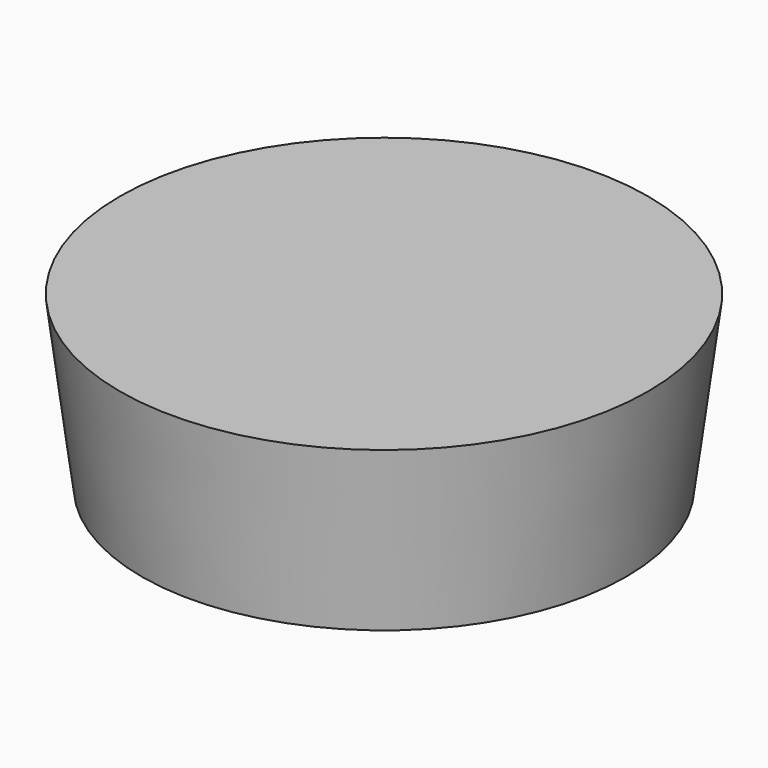
from build123d import *


with BuildPart() as part:
    # Sketch → Revolution (revolve)
    with BuildSketch(Plane.XZ):
        Polygon((12.3, 0.972585), (13, 0), (14.5, 0), (15.8, 10.177247), (0, 10.177247), (0, 8.677247), (12.3, 8.677247), align=None)
    revolve(axis=Axis((0, 0, 0), (0, 0, 1)))


solid = part.part
